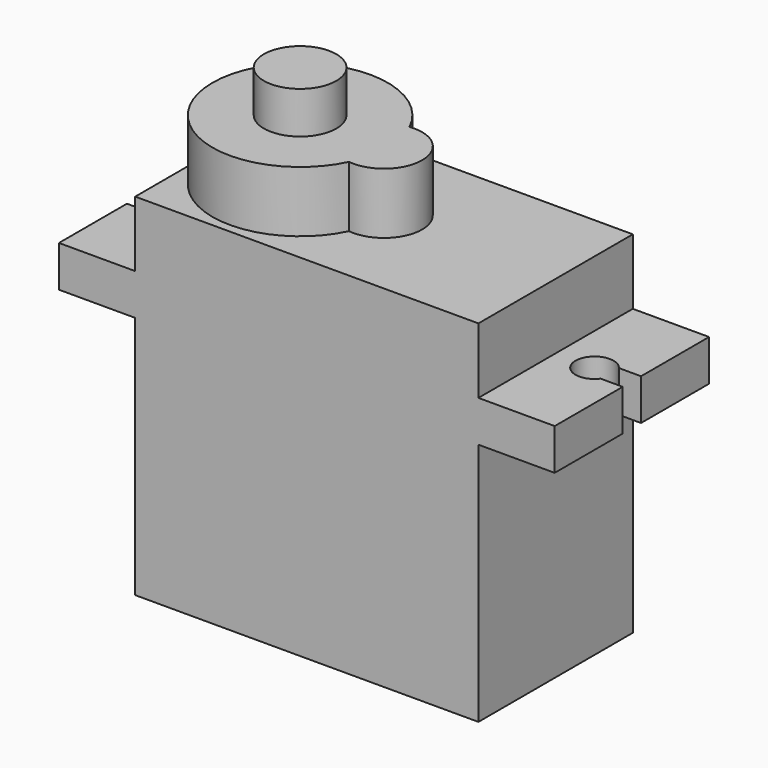
from build123d import *

# Parameters (mm, degrees)
F0_W      = 22.5
F0_H      = 12.65
F1_DEPTH  = 23
F2_W      = 12.65
F2_H      = 2.7
F3_DEPTH  = 5
F4_W      = 4
F4_H      = 1.5
F5_DEPTH  = 3
F6_R      = 1.25
F7_DEPTH  = 2.7
F8_W      = 12.65
F8_H      = 2.7
F9_DEPTH  = 5
F10_R     = 1.25
F11_DEPTH = 2.7
F12_R     = 2.375
F13_DEPTH = 4
F14_R     = 2.375
F15_DEPTH = 2.75
F17_DEPTH = 2.7
F19_DEPTH = 2.7


with BuildPart() as f1:
    # F0 (on Top) → F1 (new body)
    with BuildSketch(Plane.XY):
        Rectangle(F0_W, F0_H)
    extrude(amount=F1_DEPTH)

    # F2 (on face) → F3 (join)
    with BuildSketch(Plane(origin=(-11.25, 0, 0), x_dir=(0, -1, 0), z_dir=(-1, 0, 0))):
        with Locations((0, 17.35)):
            Rectangle(F2_W, F2_H)
    extrude(amount=F3_DEPTH)

    # F4 (on face) → F5 (join)
    with BuildSketch(Plane(origin=(-11.25, 0, 0), x_dir=(0, -1, 0), z_dir=(-1, 0, 0))):
        with Locations((0, 4.75)):
            Rectangle(F4_W, F4_H)
    extrude(amount=F5_DEPTH)

    # F6 (on face) → F7 (cut, through all)
    with BuildSketch(Plane.XY.offset(18.7)):
        with Locations((-14.0213416889, 0)):
            Circle(F6_R)
    extrude(amount=-F7_DEPTH, mode=Mode.SUBTRACT)

    # F8 (on face) → F9 (join)
    with BuildSketch(Plane.YZ.offset(11.25)):
        with Locations((0, 17.35)):
            Rectangle(F8_W, F8_H)
    extrude(amount=F9_DEPTH)

    # F10 (on face) → F11 (cut, through all)
    with BuildSketch(Plane.XY.offset(18.7)):
        with Locations((13.8043416664, 0)):
            Circle(F10_R)
    extrude(amount=-F11_DEPTH, mode=Mode.SUBTRACT)

    # F12 (on face) → F13 (join)
    with BuildSketch(Plane.XY.offset(23)):
        with BuildLine():
            ThreePointArc((-0.3125, -2.4803918541), (2.5, 0), (-0.3125, 2.4803918541))
            ThreePointArc((-0.3125, 2.4803918541), (-6.7716868718, 5.607612014), (-11.25, 0))
            ThreePointArc((-11.25, 0), (-6.7716868718, -5.607612014), (-0.3125, -2.4803918541))
        make_face()
        with Locations((-5.5, 0)):
            Circle(F12_R, mode=Mode.SUBTRACT)
        with Locations((-5.5, 0)):
            Circle(F12_R)
    extrude(amount=F13_DEPTH)

    # F14 (on face) → F15 (join)
    with BuildSketch(Plane.XY.offset(27)):
        with Locations((-5.5, 0)):
            Circle(F14_R)
    extrude(amount=F15_DEPTH)

    # F16 (on face) → F17 (cut, through all)
    with BuildSketch(Plane.XY.offset(18.7)):
        with BuildLine():
            Line((16.25, 0.75), (14.8043416664, 0.75))
            ThreePointArc((14.8043416664, 0.75), (14.990195789, 0.3952847075), (15.0543416664, 0))
            ThreePointArc((15.0543416664, 0), (14.990195789, -0.3952847075), (14.8043416664, -0.75))
            Line((14.8043416664, -0.75), (16.25, -0.75))
            Line((16.25, -0.75), (16.25, 0.75))
        make_face()
    extrude(amount=-F17_DEPTH, mode=Mode.SUBTRACT)

    # F18 (on face) → F19 (cut, through all)
    with BuildSketch(Plane.XY.offset(18.7)):
        with BuildLine():
            Line((-15.0213416889, 0.75), (-16.25, 0.75))
            Line((-16.25, 0.75), (-16.25, -0.75))
            Line((-16.25, -0.75), (-15.0213416889, -0.75))
            ThreePointArc((-15.0213416889, -0.75), (-15.2713416889, 0), (-15.0213416889, 0.75))
        make_face()
    extrude(amount=-F19_DEPTH, mode=Mode.SUBTRACT)


solid = f1.part
